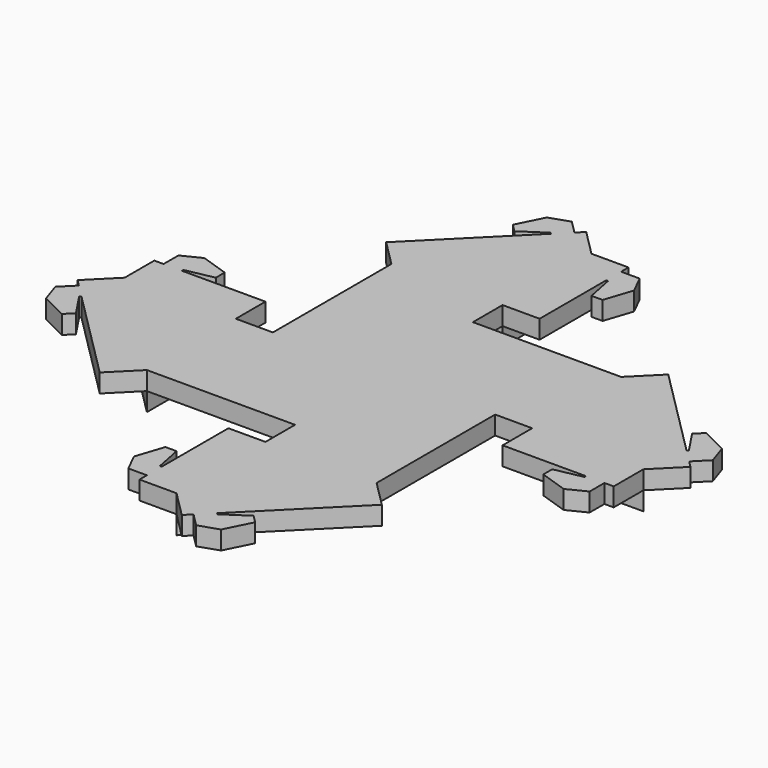
from build123d import *

# Parameters (mm, degrees)
F0_W     = 152.4
F0_H     = 152.4
F0_W_2   = 50.8
F0_H_2   = 50.8
F1_DEPTH = 25.4
F2_DEPTH = 25.4


with BuildPart() as f1:
    # F0 (on Top) → F1 (new body)
    with BuildSketch(Plane.XY):
        with Locations((-76.2, -76.2)):
            Rectangle(F0_W, F0_H)
        with Locations((-76.2, 76.2)):
            Rectangle(F0_W, F0_H)
        with Locations((76.2, -76.2)):
            Rectangle(F0_W, F0_H)
        with Locations((76.2, 76.2)):
            Rectangle(F0_W, F0_H)
        with Locations((-177.8, -76.2)):
            Rectangle(F0_W_2, F0_H)
        with Locations((-76.2, 177.8)):
            Rectangle(F0_W, F0_H_2)
        with Locations((76.2, -177.8)):
            Rectangle(F0_W, F0_H_2)
        with Locations((177.8, 76.2)):
            Rectangle(F0_W_2, F0_H)
        Polygon((-355.6, 0), (-203.2, 0), (-203.2, 50.8), (-317.5, 50.8), (-342.9, 50.8), (-355.6, 50.8), align=None)
        Polygon((-203.2, -152.4), (-203.2, 0), (-355.6, 0), align=None)
        Polygon((-152.4, 203.2), (0, 203.2), (0, 355.6), align=None)
        Polygon((0, 355.6), (0, 203.2), (50.8, 203.2), (50.8, 317.5), (50.8, 342.9), (50.8, 355.6), align=None)
        Polygon((0, -355.6), (0, -203.2), (-50.8, -203.2), (-50.8, -317.5), (-50.8, -342.9), (-50.8, -355.6), align=None)
        Polygon((152.4, -203.2), (0, -203.2), (0, -355.6), align=None)
        Polygon((355.6, 0), (203.2, 0), (203.2, -50.8), (317.5, -50.8), (342.9, -50.8), (355.6, -50.8), align=None)
        Polygon((203.2, 152.4), (203.2, 0), (355.6, 0), align=None)
        Polygon((-188.3210244843, 239.1210244843), (-152.4, 203.2), (0, 355.6), (-35.9210244843, 391.5210244843), (-44.9012806053, 382.5407683632), (-62.8617928475, 364.5802561211), align=None)
        Polygon((-203.2, -152.4), (-355.6, 0), (-391.5210244843, -35.9210244843), (-382.5407683632, -44.9012806053), (-364.5802561211, -62.8617928475), (-239.1210244843, -188.3210244843), align=None)
        Polygon((239.1210244843, 188.3210244843), (203.2, 152.4), (355.6, 0), (391.5210244843, 35.9210244843), (382.5407683632, 44.9012806053), (364.5802561211, 62.8617928475), align=None)
        Polygon((152.4, -203.2), (0, -355.6), (35.9210244843, -391.5210244843), (44.9012806053, -382.5407683632), (62.8617928475, -364.5802561211), (188.3210244843, -239.1210244843), align=None)
        Polygon((-342.9, 50.8), (-317.5, 50.8), (-317.5, 53.34), (-279.4, 60.96), (-279.4, 76.2), (-317.5, 88.9), (-342.9, 76.2), align=None)
        Polygon((50.8, 342.9), (50.8, 317.5), (53.34, 317.5), (60.96, 279.4), (76.2, 279.4), (88.9, 317.5), (76.2, 342.9), align=None)
        Polygon((-50.8, -342.9), (-50.8, -317.5), (-53.34, -317.5), (-60.96, -279.4), (-76.2, -279.4), (-88.9, -317.5), (-76.2, -342.9), align=None)
        Polygon((342.9, -50.8), (317.5, -50.8), (317.5, -53.34), (279.4, -60.96), (279.4, -76.2), (317.5, -88.9), (342.9, -76.2), align=None)
        Polygon((-64.6578440717, 366.3763073453), (-62.8617928475, 364.5802561211), (-44.9012806053, 382.5407683632), (-62.8617928475, 400.5012806053), (-89.8025612107, 391.5210244843), align=None)
        Polygon((-364.5802561211, -62.8617928475), (-382.5407683632, -44.9012806053), (-400.5012806053, -62.8617928475), (-391.5210244843, -89.8025612107), (-366.3763073453, -64.6578440717), align=None)
        Polygon((366.3763073453, 64.6578440717), (364.5802561211, 62.8617928475), (382.5407683632, 44.9012806053), (400.5012806053, 62.8617928475), (391.5210244843, 89.8025612107), align=None)
        Polygon((62.8617928475, -364.5802561211), (44.9012806053, -382.5407683632), (62.8617928475, -400.5012806053), (89.8025612107, -391.5210244843), (64.6578440717, -366.3763073453), align=None)
        Polygon((-96.9867661075, 344.8236926547), (-64.6578440717, 366.3763073453), (-89.8025612107, 391.5210244843), (-107.7630734528, 355.6), align=None)
        Polygon((-344.8236926547, -96.9867661075), (-366.3763073453, -64.6578440717), (-391.5210244843, -89.8025612107), (-355.6, -107.7630734528), align=None)
        Polygon((344.8236926547, 96.9867661075), (366.3763073453, 64.6578440717), (391.5210244843, 89.8025612107), (355.6, 107.7630734528), align=None)
        Polygon((96.9867661075, -344.8236926547), (64.6578440717, -366.3763073453), (89.8025612107, -391.5210244843), (107.7630734528, -355.6), align=None)
    extrude(amount=F1_DEPTH)

    # F0 (on Top) → F2 (join)
    with BuildSketch(Plane.XY):
        Polygon((203.2, 152.4), (203.2, 0), (355.6, 0), align=None)
        Polygon((-152.4, 203.2), (0, 203.2), (0, 355.6), align=None)
        Polygon((-203.2, -152.4), (-203.2, 0), (-355.6, 0), align=None)
        Polygon((152.4, -203.2), (0, -203.2), (0, -355.6), align=None)
    extrude(amount=-F2_DEPTH)


solid = f1.part
